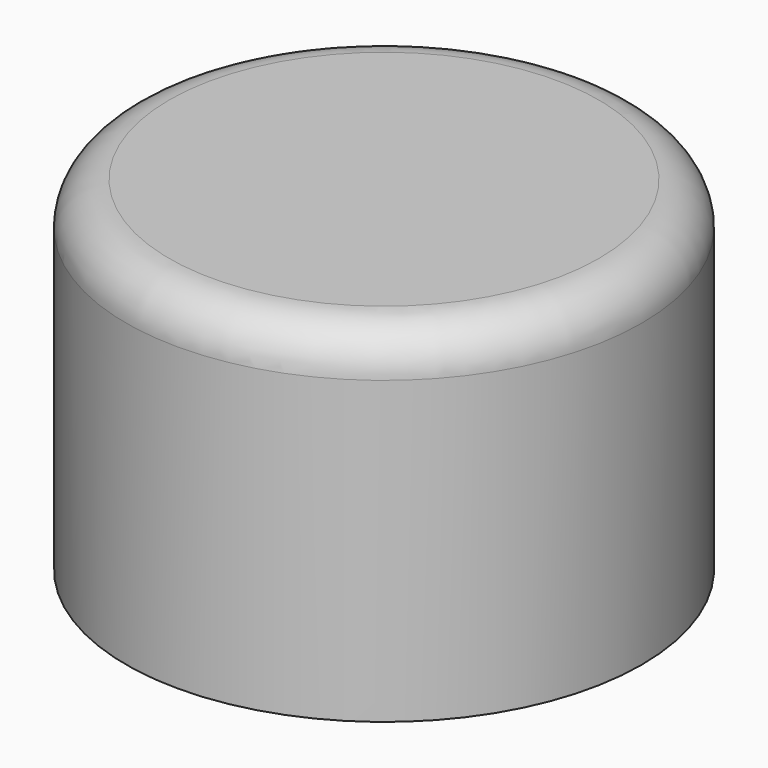
from build123d import *

# Parameters (mm, degrees)
F1_DEPTH = 6
F2_R     = 5
F3_DEPTH = 2
F4_R     = 6
F4_R_2   = 5
F5_DEPTH = 8
F6_R     = 1
F7_SIZE2 = 5
F7_SIZE  = 0.5


with BuildPart() as f1:
    # F0 (on Top) → F1 (new body)
    with BuildSketch(Plane.XY):
        Polygon((1.6334467892, -2.3801648935), (2.8780066576, 0.2245239684), (1.2445598684, 2.6046888619), (-1.6334467892, 2.3801648935), (-2.8780066576, -0.2245239684), (-1.2445598684, -2.6046888619), align=None)
    extrude(amount=F1_DEPTH)

    # F2 (on face) → F3 (join)
    with BuildSketch(Plane.XY.offset(6)):
        Circle(F2_R)
        Polygon((-1.2445598684, -2.6046888619), (-2.8780066576, -0.2245239684), (-1.6334467892, 2.3801648935), (1.2445598684, 2.6046888619), (2.8780066576, 0.2245239684), (1.6334467892, -2.3801648935), align=None, mode=Mode.SUBTRACT)
        Polygon((-1.6334467892, 2.3801648935), (-2.8780066576, -0.2245239684), (-1.2445598684, -2.6046888619), (1.6334467892, -2.3801648935), (2.8780066576, 0.2245239684), (1.2445598684, 2.6046888619), align=None)
    extrude(amount=F3_DEPTH)

    # F4 (on face) → F5 (join)
    with BuildSketch(Plane.XY.offset(8)):
        Circle(F4_R)
        Circle(F4_R_2, mode=Mode.SUBTRACT)
    extrude(amount=-F5_DEPTH)

    # F6
    f6_edges = [f1.edges().sort_by_distance(p)[0] for p in [
        (-6, 0, 8),
    ]]
    fillet(f6_edges, radius=F6_R)

    # F7
    f7_edges = [f1.edges().sort_by_distance(p)[0] for p in [
        (-5, 0, 0),
    ]]
    f7_side = f1.faces().sort_by_distance((-5.830294, 0, 0))[0]
    chamfer(f7_edges, length=F7_SIZE, length2=F7_SIZE2, reference=f7_side)


solid = f1.part
